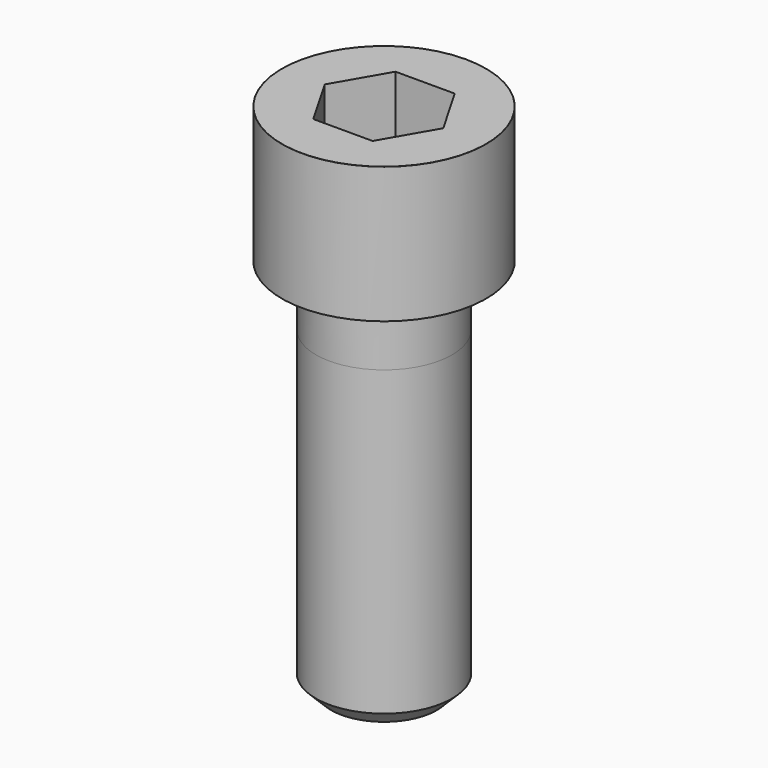
from build123d import *

# Parameters (mm, degrees)
POCKET_DEPTH = 27.15


with BuildPart() as part:
    # Sketch → Revolve (revolve)
    with BuildSketch(Plane.YZ):
        with BuildLine():
            Line((17.999, 0), (27, 0))
            Line((27, 0), (27, 35.97229))
            ThreePointArc((27, 35.97229), (26.991884, 35.991884), (26.97229, 36))
            Line((26.97229, 36), (0, 36))
            Line((0, -100), (0, 36))
            Line((14, -100), (0, -100))
            Line((18, -96), (14, -100))
            Line((18, -16), (18, -96))
            Line((17.999, 0), (18, -16))
        make_face()
    revolve(axis=Axis((0, 0, 0), (0, 0, 1)))

    # Sketch001 → Pocket (cut)
    with BuildSketch(Plane.XY.offset(36)):
        Polygon((15.67506, 0), (7.83753, 13.575), (-7.83753, 13.575), (-15.67506, 0), (-7.83753, -13.575), (7.83753, -13.575), align=None)
    extrude(amount=-POCKET_DEPTH, mode=Mode.SUBTRACT)


solid = part.part
